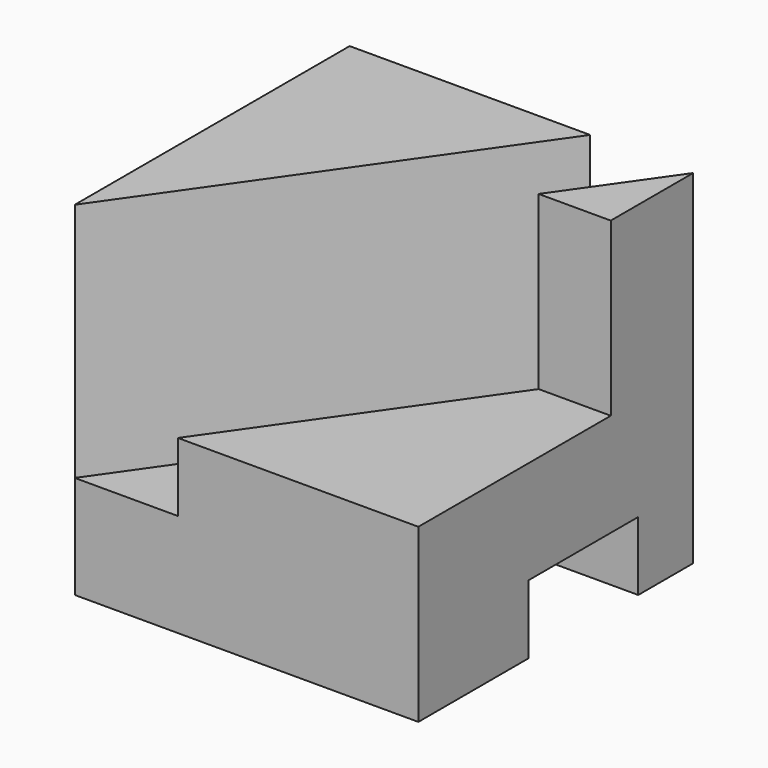
from build123d import *

# Parameters (mm, degrees)
F0_W     = 50
F0_H     = 50
F1_DEPTH = 50
F3_DEPTH = 35
F4_W     = 20
F4_H     = 10
F5_DEPTH = 30
F7_DEPTH = 25


with BuildPart() as f1:
    # F0 (on Top) → F1 (new body)
    with BuildSketch(Plane.XY):
        with Locations((25, 25)):
            Rectangle(F0_W, F0_H)
    extrude(amount=F1_DEPTH)

    # F2 (on face) → F3 (cut)
    with BuildSketch(Plane.XY.offset(50)):
        Polygon((15, 0), (50, 50), (35, 50), (0, 0), align=None)
    extrude(amount=-F3_DEPTH, mode=Mode.SUBTRACT)

    # F4 (on face) → F5 (cut)
    with BuildSketch(Plane.YZ.offset(50)):
        with Locations((30, 5)):
            Rectangle(F4_W, F4_H)
    extrude(amount=-F5_DEPTH, mode=Mode.SUBTRACT)

    # F6 (on face) → F7 (cut)
    with BuildSketch(Plane.XY.offset(50)):
        Polygon((50, 35), (39.5, 35), (15, 0), (50, 0), align=None)
    extrude(amount=-F7_DEPTH, mode=Mode.SUBTRACT)


solid = f1.part
